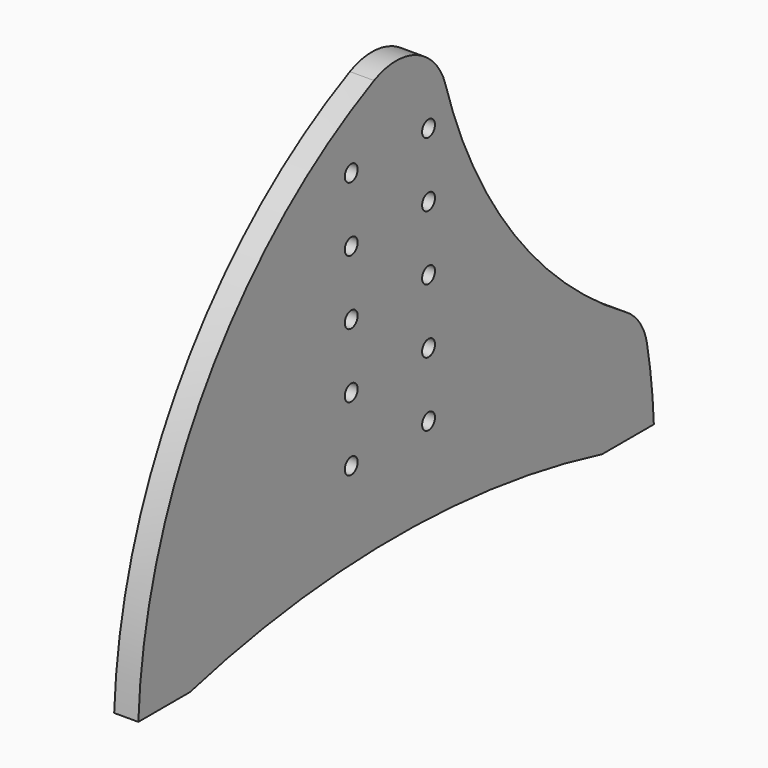
from build123d import *

# Parameters (mm, degrees)
F1_DEPTH = 19.05
F2_R     = 6.35
F3_DEPTH = 19.051


with BuildPart() as f1:
    # F0 (on Right) → F1 (new body)
    with BuildSketch(Plane.YZ):
        with BuildLine():
            ThreePointArc((-21.722689, 172.921289), (-186.770129, 29.95218), (-254, -177.8))
            Line((-254, -177.8), (-203.2, -177.8))
            ThreePointArc((-203.2, -177.8), (0, -152.4), (203.2, -177.8))
            Line((203.2, -177.8), (254, -177.8))
            ThreePointArc((254, -177.8), (251.689261, -148.097726), (247.208804, -118.64454))
            ThreePointArc((247.208804, -118.64454), (240.0276, -101.498698), (226.504407, -88.74437))
            ThreePointArc((226.504407, -88.74437), (116.258342, 9.959742), (48.659161, 141.591986))
            ThreePointArc((48.659161, 141.591986), (20.658526, 173.409755), (-21.722689, 172.921289))
        make_face()
    extrude(amount=F1_DEPTH)

    # F2 (on face) → F3 (cut, through all)
    with BuildSketch(Plane.YZ.offset(19.05)):
        with Locations((31.991019, -85.309384)):
            Circle(F2_R)
        with Locations((31.991019, -34.509384)):
            Circle(F2_R)
        with Locations((31.991019, 16.290616)):
            Circle(F2_R)
        with Locations((31.991019, 67.090616)):
            Circle(F2_R)
        with Locations((-44.208981, -85.309384)):
            Circle(F2_R)
        with Locations((-44.208981, -34.509384)):
            Circle(F2_R)
        with Locations((-44.208981, 16.290616)):
            Circle(F2_R)
        with Locations((-44.208981, 67.090616)):
            Circle(F2_R)
        with Locations((31.991019, 117.890616)):
            Circle(F2_R)
        with Locations((-44.208981, 117.890616)):
            Circle(F2_R)
    extrude(amount=-F3_DEPTH, mode=Mode.SUBTRACT)


solid = f1.part
